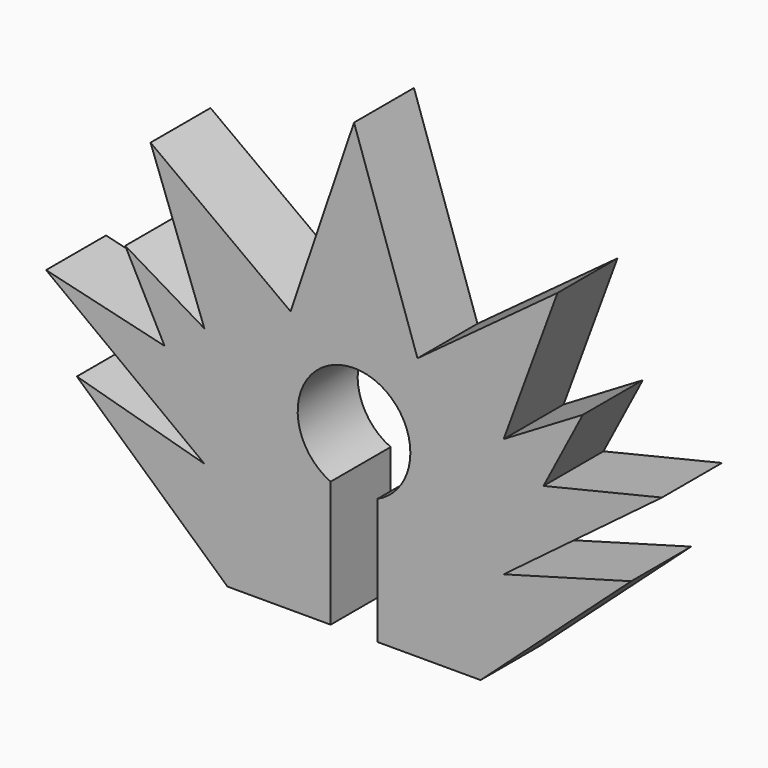
from build123d import *

# Parameters (mm, degrees)
F1_DEPTH = 3.175


with BuildPart() as f1:
    # F0 (on Front) → F1 (new body)
    with BuildSketch(Plane.XZ):
        with BuildLine():
            Line((-5.361001, 0), (-0.9897, 0))
            Line((-0.9897, 0), (-0.9897, 5.335216))
            ThreePointArc((-0.9897, 5.335216), (-2.332289, 8.013342), (0, 9.893591))
            Line((0, 9.893591), (0, 19.05))
            Line((0, 19.05), (-2.688651, 11.131322))
            Line((-2.688651, 11.131322), (-8.619965, 15.498334))
            Line((-8.619965, 15.498334), (-6.33869, 9.306302))
            Line((-6.33869, 9.306302), (-9.691949, 11.302072))
            Line((-9.691949, 11.302072), (-8.026404, 8.108287))
            Line((-8.026404, 8.108287), (-13.045209, 9.306302))
            Line((-13.045209, 9.306302), (-6.33869, 4.26271))
            Line((-6.33869, 4.26271), (-11.741623, 5.761833))
            Line((-11.741623, 5.761833), (-5.361001, 0))
        make_face()
        with BuildLine():
            Line((0.9897, 5.335216), (0.9897, 0))
            Line((0.9897, 0), (5.361001, 0))
            Line((5.361001, 0), (11.741623, 5.761833))
            Line((11.741623, 5.761833), (6.33869, 4.26271))
            Line((6.33869, 4.26271), (13.045209, 9.306302))
            Line((13.045209, 9.306302), (8.026404, 8.108287))
            Line((8.026404, 8.108287), (9.691949, 11.302072))
            Line((9.691949, 11.302072), (6.33869, 9.306302))
            Line((6.33869, 9.306302), (8.619965, 15.498334))
            Line((8.619965, 15.498334), (2.688651, 11.131322))
            Line((2.688651, 11.131322), (0, 19.05))
            Line((0, 19.05), (0, 9.893591))
            ThreePointArc((0, 9.893591), (1.687601, 9.194563), (2.386628, 7.506963))
            ThreePointArc((2.386628, 7.506963), (2.007242, 6.21585), (0.9897, 5.335216))
        make_face()
    extrude(amount=F1_DEPTH)


solid = f1.part
